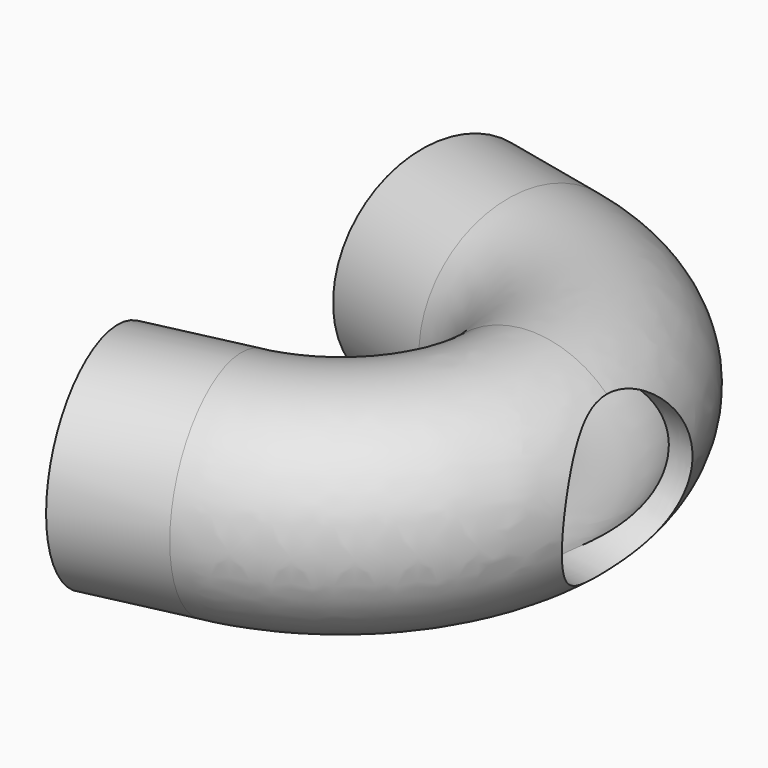
from build123d import *

# Parameters (mm, degrees)
F0_R     = 25.6267942687
F0_R_2   = 20.2357295817
F3_DEPTH = 25.4
F5_R     = 19.18287463


with BuildPart() as f2:
    # F2: sweep along a path in F1
    with BuildLine(Plane.XY) as f2_path:
        ThreePointArc((-35.9766818583, -43.863195926), (-10.2970958453, -28.2399727094), (0, 0))
    # F0 (on Front) → F2 (sweep)
    with BuildSketch(Plane.XZ):
        Circle(F0_R)
        Circle(F0_R_2, mode=Mode.SUBTRACT)
    sweep(path=f2_path.line)

    # F3 (add): a face of the model
    f3_faces = [f2.faces().sort_by_distance(p)[0] for p in [
        (-41.4506358623, -19.570328804, 0),
    ]]
    extrude(f3_faces, amount=F3_DEPTH)

    # F4: F2 across plane


with BuildPart() as f2_1:
    add(f2.part)
    add(f2.part.mirror(Plane.XZ))

    # F7: sweep along a path in F6
    with BuildLine(Plane.XZ) as f7_path:
        ThreePointArc((65.4886364937, -18.9907755703), (34.213022198, -4.4306436508), (0, 0))
    # F5 (on Right) → F7 (sweep, cut)
    with BuildSketch(Plane.YZ):
        Circle(F5_R)
    sweep(path=f7_path.line, mode=Mode.SUBTRACT)


solid = f2_1.part
